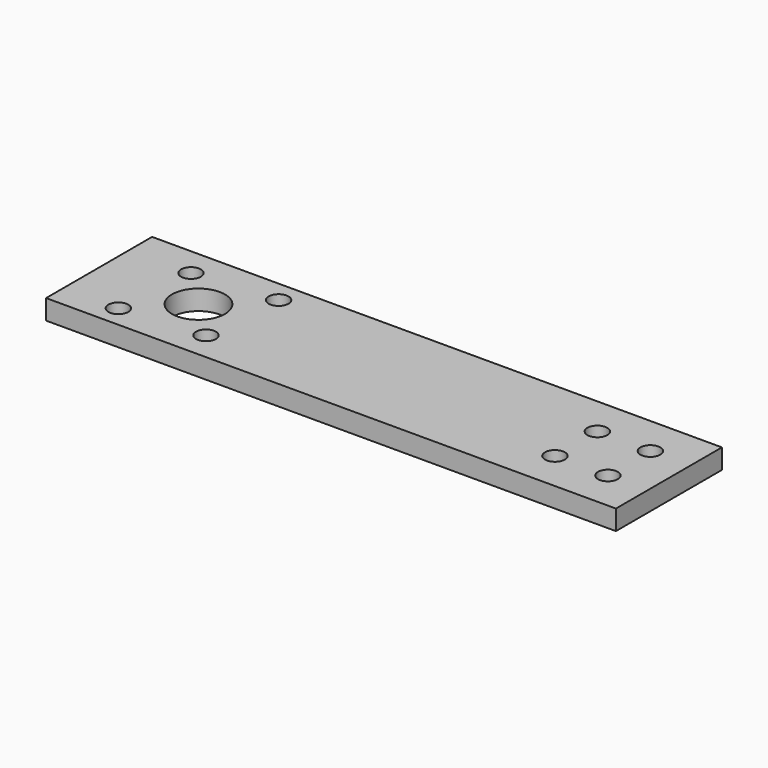
from build123d import *

# Parameters (mm, degrees)
F0_W     = 86
F0_H     = 20
F1_DEPTH = 3
F3_D     = 3
F4_D     = 8
F5_D     = 3


with BuildPart() as f1:
    # F0 (on Top) → F1 (new body)
    with BuildSketch(Plane.XY):
        Rectangle(F0_W, F0_H)
    extrude(amount=F1_DEPTH)

    # F3 (through all)
    with Locations(Plane.XY.offset(3)):
        with Locations((37, 4), (37, -4), (29, -4), (29, 4)):
            Hole(F3_D / 2)

    # F4 (through all)
    with Locations(Plane.XY.offset(3)):
        with Locations((-28, 0)):
            Hole(F4_D / 2)

    # F5 (through all)
    with Locations(Plane.XY.offset(3)):
        with Locations((-34.717514, -6.717514), (-33.656854, 5.656854), (-21.282486, 6.717514), (-22.343146, -5.656854)):
            Hole(F5_D / 2)


solid = f1.part
